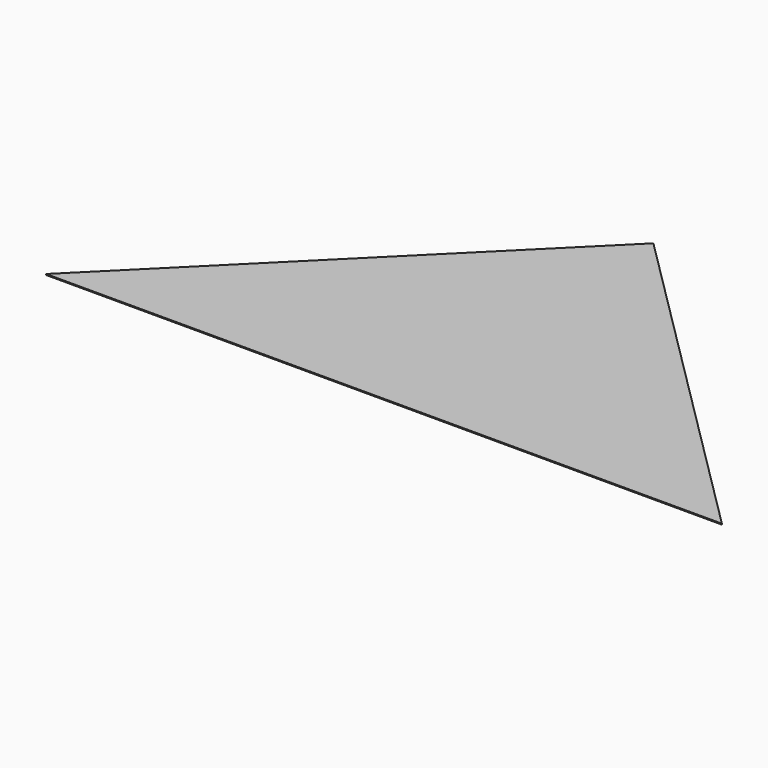
from build123d import *

# Parameters (mm, degrees)
PAD_DEPTH = 0.6


with BuildPart() as part:
    # Sketch → Pad (new body)
    with BuildSketch(Plane.XY):
        Polygon((-215.9, 0), (0, 215.151644), (215.9, 0), (0, 0), align=None)
    extrude(amount=PAD_DEPTH)


solid = part.part
